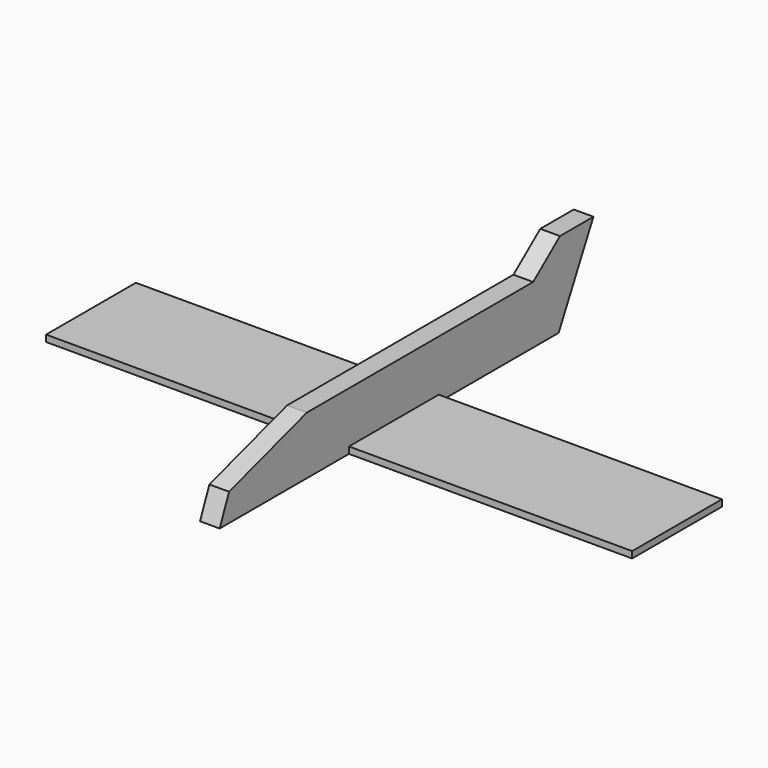
from build123d import *

# Parameters (mm, degrees)
F1_DEPTH = 1.5
F2_W     = 89.3436
F2_H     = 17.102918
F3_DEPTH = 1


with BuildPart() as f1:
    # F0 (on Right) → F1 (new body, symmetric)
    with BuildSketch(Plane.YZ):
        Polygon((-31.397894, 4.211913), (-33.184767, 0), (31.397894, 0), (38.034849, 12.891006), (31.653162, 12.891006), (26.547816, 8.806726), (-16.592382, 8.806726), align=None)
    extrude(amount=F1_DEPTH, both=True)

    # F2 (on Top) → F3 (join)
    with BuildSketch(Plane.XY):
        Rectangle(F2_W, F2_H)
    extrude(amount=F3_DEPTH)


solid = f1.part
